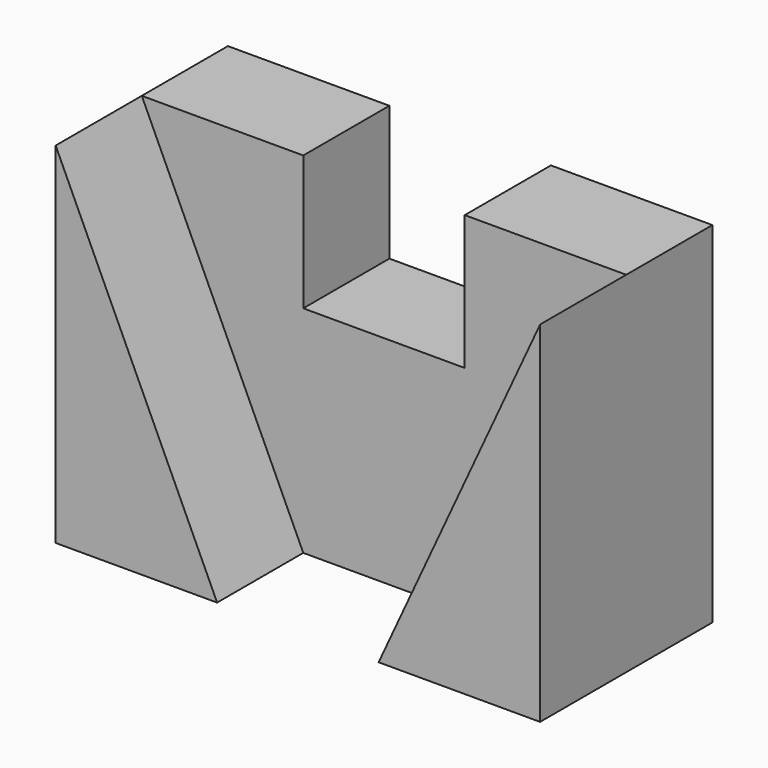
from build123d import *

# Parameters (mm, degrees)
F0_W     = 900
F0_H     = 650
F1_DEPTH = 200
F2_W     = 300
F2_H     = 500
F3_DEPTH = 200.001
F5_DEPTH = 200


with BuildPart() as f1:
    # F0 (on Front) → F1 (new body)
    with BuildSketch(Plane.XZ):
        Rectangle(F0_W, F0_H)
    extrude(amount=F1_DEPTH)

    # F2 (on face) → F3 (cut, through all)
    with BuildSketch(Plane.XZ.offset(200)):
        with Locations((0, 325)):
            Rectangle(F2_W, F2_H)
    extrude(amount=-F3_DEPTH, mode=Mode.SUBTRACT)

    # F4 (on face) → F5 (join)
    with BuildSketch(Plane.XZ.offset(200)):
        Polygon((-150, -325), (-450, 325), (-450, -325), align=None)
        Polygon((450, -325), (450, 325), (150, -325), align=None)
    extrude(amount=F5_DEPTH)


solid = f1.part
